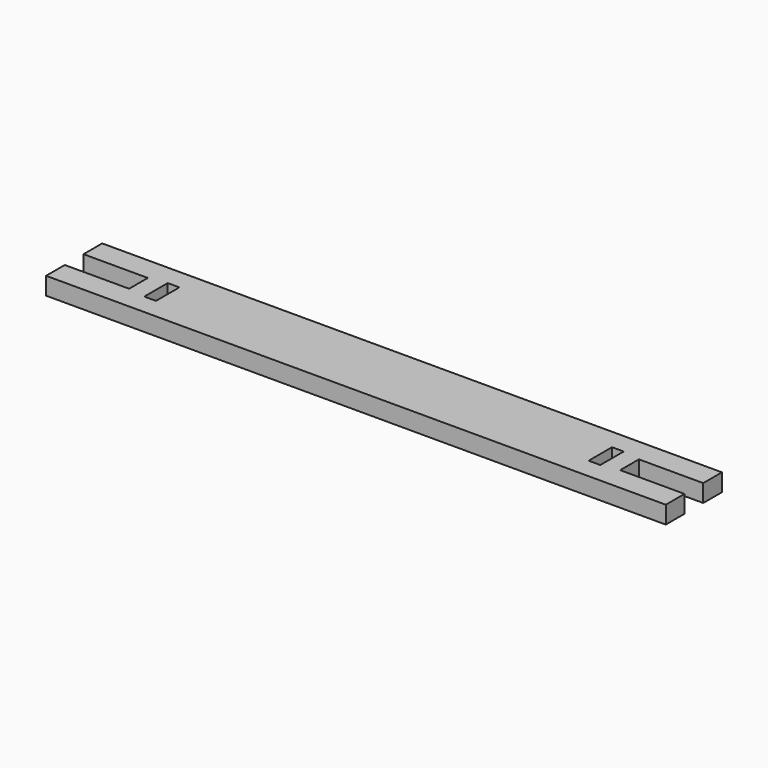
from build123d import *

# Parameters (mm, degrees)
SKETCH_W  = 2
SKETCH_H  = 5
PAD_DEPTH = 1.5


with BuildPart() as part:
    # Sketch → Pad (new body, symmetric)
    with BuildSketch(Plane.XY):
        Polygon((-53, 6), (53, 6), (53, 2), (42, 2), (42, -2), (53, -2), (53, -6), (-53, -6), (-53, -2), (-42, -2), (-42, 2), (-53, 2), align=None)
        with Locations((-38, 0)):
            Rectangle(SKETCH_W, SKETCH_H, mode=Mode.SUBTRACT)
        with Locations((38, 0)):
            Rectangle(SKETCH_W, SKETCH_H, mode=Mode.SUBTRACT)
    extrude(amount=PAD_DEPTH, both=True)


solid = part.part
